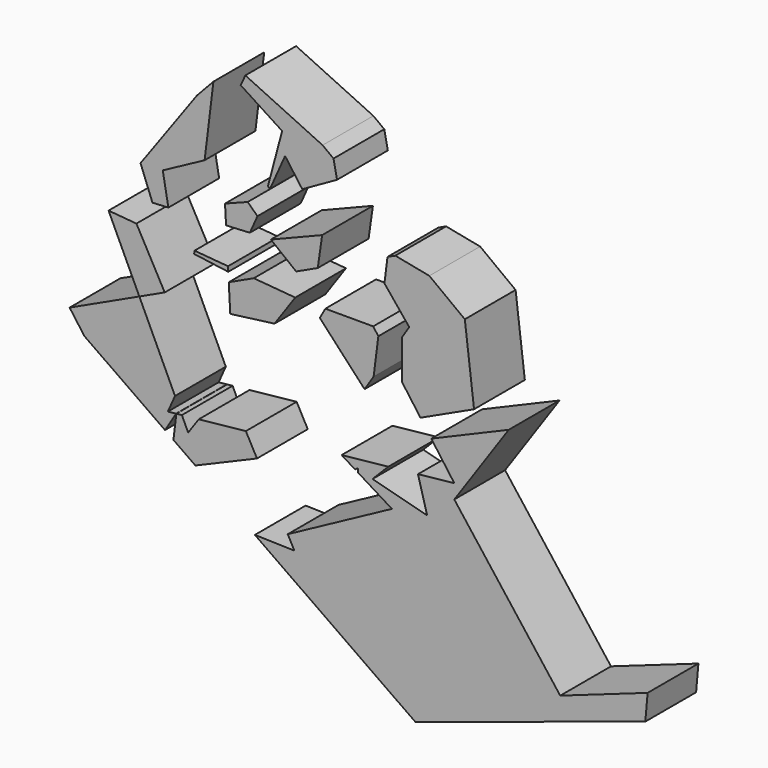
from build123d import *

# Parameters (mm, degrees)
F1_DEPTH = 25.4


with BuildPart() as f1:
    # F0 (on Front) → F1 (new body)
    with BuildSketch(Plane.XZ):
        Polygon((-8.2775503208, 14.1415705085), (0, 26.0273497552), (-16.5933340886, 27.4365707117), (-26.5976804775, 22.7788339356), (-25.9946774803, 11.8107815519), align=None)
    extrude(amount=F1_DEPTH)


with BuildPart() as f1b:
    # F0 (on Front) → F1, piece 2 (new body)
    with BuildSketch(Plane.XZ):
        Polygon((9.8245315285, 22.0570616703), (27.7499896085, 2.7637792612), (31.3745177308, 8.3765039567), (33.2459360691, 23.2114415528), (31.2008630456, 26.0273497552), (12.0347946233, 26.0273497552), align=None)
    extrude(amount=F1_DEPTH)


with BuildPart() as f1c:
    # F0 (on Front) → F1, piece 3 (new body)
    with BuildSketch(Plane.XZ):
        Polygon((-9.7521655262, 43.2884246111), (0.377061074, 35.3375000258), (9.0266028078, 39.3644786073), (10.7635590371, 51.5231762454), align=None)
    extrude(amount=F1_DEPTH)


with BuildPart() as f1d:
    # F0 (on Front) → F1, piece 4 (new body)
    with BuildSketch(Plane.XZ):
        Polygon((-26.7957196178, 26.3809779969), (-26.9018860354, 28.3120444023), (-40.2927486587, 29.4492892823), (-40.4407623715, 28.2343438209), align=None)
    extrude(amount=F1_DEPTH)


with BuildPart() as f1e:
    # F0 (on Front) → F1, piece 5 (new body)
    with BuildSketch(Plane.XZ):
        Polygon((-27.6790868411, 42.4485896423), (-18.1467949534, 42.9602892179), (-15.1103850066, 49.7767484798), (-19.0138577454, 53.5115502348), (-28.0942054441, 49.9992031622), align=None)
    extrude(amount=F1_DEPTH)


with BuildPart() as f1f:
    # F0 (on Front) → F1, piece 6 (new body)
    with BuildSketch(Plane.XZ):
        Polygon((-4.0613790776, 74.5807440262), (2.8184896701, 65.1076941085), (16.7262681572, 72.9500804147), (15.3070834712, 79.9770611173), (10.9419030966, 83.2600112295), (-19.9605801177, 97.7949294743), (-21.8179547803, 93.7347027441), (-5.2396552637, 82.998521626), (-10.9227559582, 61.6807035146), (-10.1316010064, 60.9536576932), align=None)
    extrude(amount=F1_DEPTH)


with BuildPart() as f1g:
    # F0 (on Front) → F1, piece 7 (new body)
    with BuildSketch(Plane.XZ):
        Polygon((-53.0043693492, 53.5945301139), (-36.2540241362, 62.6004746449), (-32.7397064753, 91.447155212), (-39.2784316626, 84.4816475651), (-61.9047880588, 53.2532913941), (-57.1322903783, 40.867522683), (-50.7614407107, 41.2095140015), align=None)
    extrude(amount=F1_DEPTH)


with BuildPart() as f1h:
    # F0 (on Front) → F1, piece 8 (new body)
    with BuildSketch(Plane.XZ):
        Polygon((-62.3786299077, 6.1202499996), (-52.2224069815, 10.848696136), (-63.5382242926, 31.4234562117), (-74.7011477181, 32.3714890509), align=None)
    extrude(amount=F1_DEPTH)


with BuildPart() as f1i:
    # F0 (on Front) → F1, piece 9 (new body)
    with BuildSketch(Plane.XZ):
        Polygon((-39.947044008, -46.1311363055), (-15.3050767152, -35.643806509), (-19.7545978755, -27.4421568495), (-38.6155735952, -29.4209610913), (-42.8447596543, -35.4936722127), (-45.3630345792, -30.12887274), (-47.5793322149, -30.3613961909), (-48.7487289594, -39.9601910635), align=None)
    extrude(amount=F1_DEPTH)


with BuildPart() as f1j:
    # F0 (on Front) → F1, piece 10 (new body)
    with BuildSketch(Plane.XZ):
        Polygon((-50.9664304554, -30.7167544961), (-48.1037262207, -24.2902484787), (-62.3786299077, 6.1202499996), (-90.2834418248, -6.8714301805), (-84.3736491186, -14.9832198626), (-52.1055814784, -37.6066697555), (-47.6679858226, -30.3706973075), align=None)
    extrude(amount=F1_DEPTH)


with BuildPart() as f1k:
    # F0 (on Front) → F1, piece 11 (new body)
    with BuildSketch(Plane.XZ):
        Polygon((85.4236853653, 7.2251631385), (54.4344372496, -5.9634942959), (63.6764039087, -18.688971294), (49.120557909, -20.2161017159), (52.7831368829, -33.582583536), (30.8986216103, -27.8509301128), (37.2123704158, -21.4654523473), (18.5571143493, -23.4226734575), (23.9078568819, -26.7217250352), (25.0344755149, -25.9977193516), (25.1040715001, -27.4592626198), (38.6821180582, -35.830937326), (-3.0041410369, -58.3176991105), (-0.3337582805, -63.2399240051), (-16.1427256153, -62.8205709006), (48.0596655795, -107.8334795256), (140.0860498561, -77.7991094976), (141.0047548768, -67.370930717), (106.0325218358, -79.7235865211), (63.6513456702, -24.3992414325), align=None)
    extrude(amount=F1_DEPTH)


with BuildPart() as f1l:
    # F0 (on Front) → F1, piece 12 (new body)
    with BuildSketch(Plane.XZ):
        Polygon((42.6559373736, 25.8462270468), (42.6559373736, 10.2545937769), (50.109830102, -0.0088429957), (71.5507794352, 9.9415641206), (67.8611167444, 40.4524012804), (53.6601199049, 51.132639018), (40.0438383938, 53.8052139902), (36.9219696666, 52.3517614391), (35.6976277022, 42.6462689432), (45.6275527562, 30.4478906235), align=None)
    extrude(amount=F1_DEPTH)


solid = Compound([f1.part, f1b.part, f1c.part, f1d.part, f1e.part, f1f.part, f1g.part, f1h.part, f1i.part, f1j.part, f1k.part, f1l.part])
